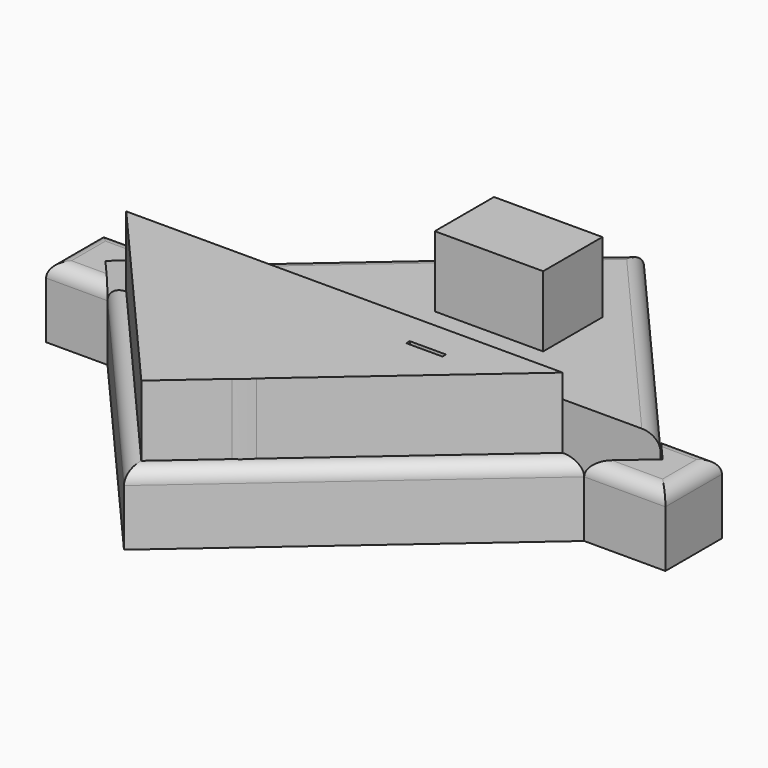
from build123d import *

# Parameters (mm, degrees)
F1_DEPTH = 25.4
F2_R     = 5.08
F2_2_R   = 5.08
F2_3_R   = 5.08
F2_4_R   = 5.08
F3_R     = 25.4
F4_DEPTH = 25.4
F5_W     = 38.972184062
F5_H     = 26.6281440854
F6_DEPTH = 25.4
F7_W     = 13.0164770336
F7_H     = 1.5988759696
F8_DEPTH = 25.4


with BuildPart() as f1:
    # F0 (on Top) → F1 (new body)
    with BuildSketch(Plane.XY):
        Polygon((-111.3652590445, 0), (-111.3652590445, -25.4), (-89.2744497164, -25.4), (-98.7879901342, -14.4613366391), (-82.1603534924, 0), align=None)
    extrude(amount=F1_DEPTH)

    # F2#4
    f2_4_edges = [f1.edges().sort_by_distance(p)[0] for p in [
        (-96.762806, 0, 25.4),
        (-111.365259, -12.7, 25.4),
        (-100.319854, -25.4, 25.4),
    ]]
    fillet(f2_4_edges, radius=F2_4_R)


with BuildPart() as f1b:
    # F0 (on Top) → F1, piece 2 (new body)
    with BuildSketch(Plane.XY):
        Polygon((98.7879901342, -10.9386633609), (82.1603534924, -25.4), (111.3652590445, -25.4), (111.3652590445, 0), (89.2744497164, 0), align=None)
    extrude(amount=F1_DEPTH)

    # F2#2
    f2_2_edges = [f1b.edges().sort_by_distance(p)[0] for p in [
        (96.762806, -25.4, 25.4),
        (111.365259, -12.7, 25.4),
        (100.319854, 0, 25.4),
    ]]
    fillet(f2_2_edges, radius=F2_2_R)


with BuildPart() as f1c:
    # F0 (on Top) → F1, piece 3 (new body)
    with BuildSketch(Plane.XY):
        Polygon((15.4450166199, 84.8890401793), (-82.1603534924, 0), (89.2744497164, 0), align=None)
    extrude(amount=F1_DEPTH)

    # F2#3
    f2_3_edges = [f1c.edges().sort_by_distance(p)[0] for p in [
        (52.359733, 42.44452, 25.4),
        (-33.357668, 42.44452, 25.4),
    ]]
    fillet(f2_3_edges, radius=F2_3_R)

    # F5 (on face) → F6 (join)
    with BuildSketch(Plane.XY.offset(25.4)):
        with Locations((12.1304392815, 32.6356142759)):
            Rectangle(F5_W, F5_H)
    extrude(amount=F6_DEPTH)


with BuildPart() as f1d:
    # F0 (on Top) → F1, piece 4 (new body)
    with BuildSketch(Plane.XY):
        Polygon((82.1603534924, -25.4), (-89.2744497164, -25.4), (-15.4450166199, -110.2890401793), align=None)
    extrude(amount=F1_DEPTH)

    # F2
    f2_edges = [f1d.edges().sort_by_distance(p)[0] for p in [
        (-52.359733, -67.84452, 25.4),
        (33.357668, -67.84452, 25.4),
    ]]
    fillet(f2_edges, radius=F2_R)

    # F3 (on face) → F4 (join)
    with BuildSketch(Plane.XY.offset(25.4)):
        with Locations((-9.6331909299, -65.1513114572)):
            Circle(F3_R)
    extrude(amount=F4_DEPTH)

    # F7 (on face) → F8 (join)
    with BuildSketch(Plane.XY.offset(25.4)):
        with BuildLine():
            ThreePointArc((15.7668090701, -65.1513114572), (14.1442678294, -74.0839737116), (9.4839386014, -81.8754066041))
            Line((9.4839386014, -81.8754066041), (74.4193289909, -25.4))
            Line((74.4193289909, -25.4), (-82.5419498634, -25.4))
            Line((-82.5419498634, -25.4), (-14.9456274188, -103.1222130971))
            Line((-14.9456274188, -103.1222130971), (4.2779697999, -86.4031256656))
            ThreePointArc((4.2779697999, -86.4031256656), (-31.9771328665, -53.0720623608), (15.7668090701, -65.1513114572))
        make_face()
        with Locations((35.4433952794, -38.0758401006)):
            Rectangle(F7_W, F7_H, mode=Mode.SUBTRACT)
    extrude(amount=F8_DEPTH)


solid = Compound([f1.part, f1b.part, f1c.part, f1d.part])
